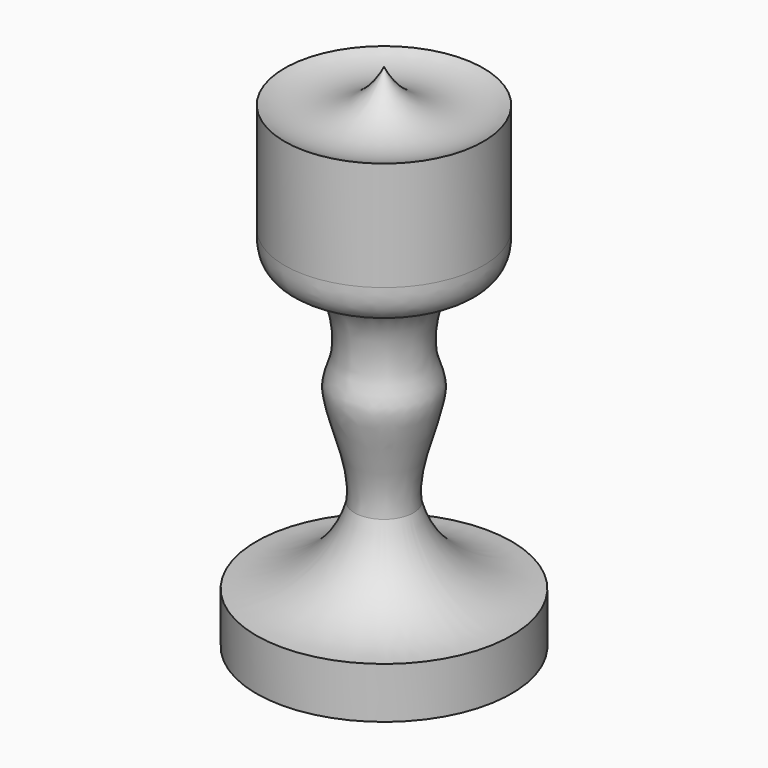
from build123d import *


with BuildPart() as f1:
    # F0 (on Right) → F1 (revolve)
    with BuildSketch(Plane.YZ):
        with BuildLine():
            Line((-12.7, 0), (0, 0))
            Line((0, 0), (0, 50.8))
            ThreePointArc((0, 50.8), (-4.22672354, 47.0001037429), (-9.8920874298, 47.4562346935))
            Line((-9.8920874298, 47.4562346935), (-9.8920874298, 36.5918241441))
            add(Edge.make_bspline(
                [(-2.9320756439, 12.6561736688), (-2.4273266986, 15.5860356143), (-5.884754951, 22.8074898542), (-3.5409044181, 25.25541379), (-4.5901075037, 33.9237246001), (-10.0857636322, 32.4866325714), (-9.8920874298, 36.5918241441)],
                knots=[0, 0, 0, 0, 0.3163034149, 0.4977039823, 0.7525681043, 1, 1, 1, 1], degree=3))
            ThreePointArc((-2.9320756439, 12.6561736688), (-6.5191676595, 7.1960383571), (-12.7, 5.08))
            Line((-12.7, 5.08), (-12.7, 0))
        make_face()
    revolve(axis=Axis((0, 0, 25.4), (0, 0, 1)))


solid = f1.part
